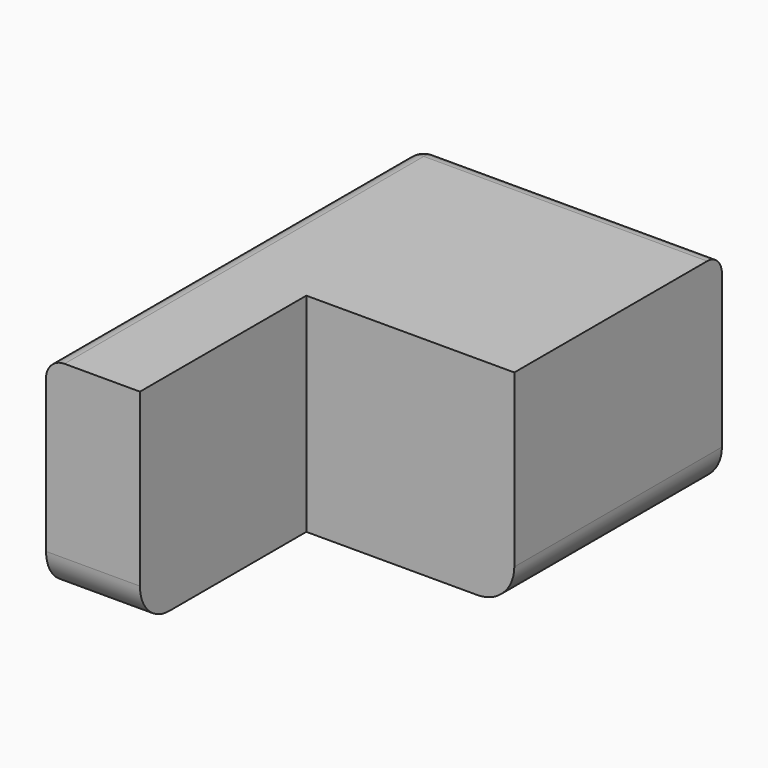
from build123d import *

# Parameters (mm, degrees)
F0_W     = 16.4
F0_H     = 25.4
F1_DEPTH = 11.3
F2_W     = 11.3
F2_H     = 11.3
F3_DEPTH = 25
F4_R     = 2
F5_R     = 1


with BuildPart() as f1:
    # F0 (on Top) → F1 (new body)
    with BuildSketch(Plane.XY):
        with Locations((8.2, 12.7)):
            Rectangle(F0_W, F0_H)
    extrude(amount=F1_DEPTH)

    # F2 (on face) → F3 (cut)
    with BuildSketch(Plane.XY.offset(11.3)):
        with Locations((10.75, 5.65)):
            Rectangle(F2_W, F2_H)
    extrude(amount=-F3_DEPTH, mode=Mode.SUBTRACT)

    # F4
    f4_edges = [f1.edges().sort_by_distance(p)[0] for p in [
        (16.4, 18.35, 0),
        (2.55, 0, 0),
    ]]
    fillet(f4_edges, radius=F4_R)

    # F5
    f5_edges = [f1.edges().sort_by_distance(p)[0] for p in [
        (0, 25.4, 5.65),
        (0, 12.7, 11.3),
        (8.2, 25.4, 11.3),
    ]]
    fillet(f5_edges, radius=F5_R)


solid = f1.part
